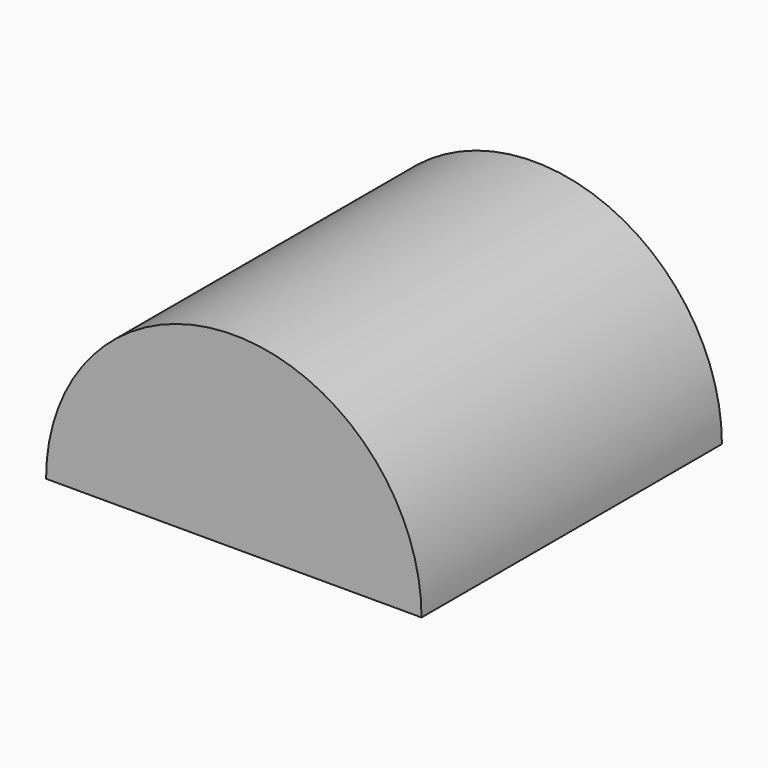
from build123d import *

# Parameters (mm, degrees)
F1_DEPTH = 42.8752
F2_R     = 10.7188
F3_DEPTH = 10.9982


with BuildPart() as f1:
    # F0 (on Front) → F1 (new body)
    with BuildSketch(Plane.XZ):
        with BuildLine():
            Line((-21.4376, 0), (21.4376, 0))
            ThreePointArc((21.4376, 0), (0, 21.4376), (-21.4376, 0))
        make_face()
    extrude(amount=F1_DEPTH)

    # F2 (on face) → F3 (cut)
    with BuildSketch(Plane(origin=(0, 0, 0), x_dir=(1, 0, 0), z_dir=(0, 0, -1))):
        with Locations((0, 21.4376)):
            Circle(F2_R)
    extrude(amount=-F3_DEPTH, mode=Mode.SUBTRACT)


solid = f1.part
